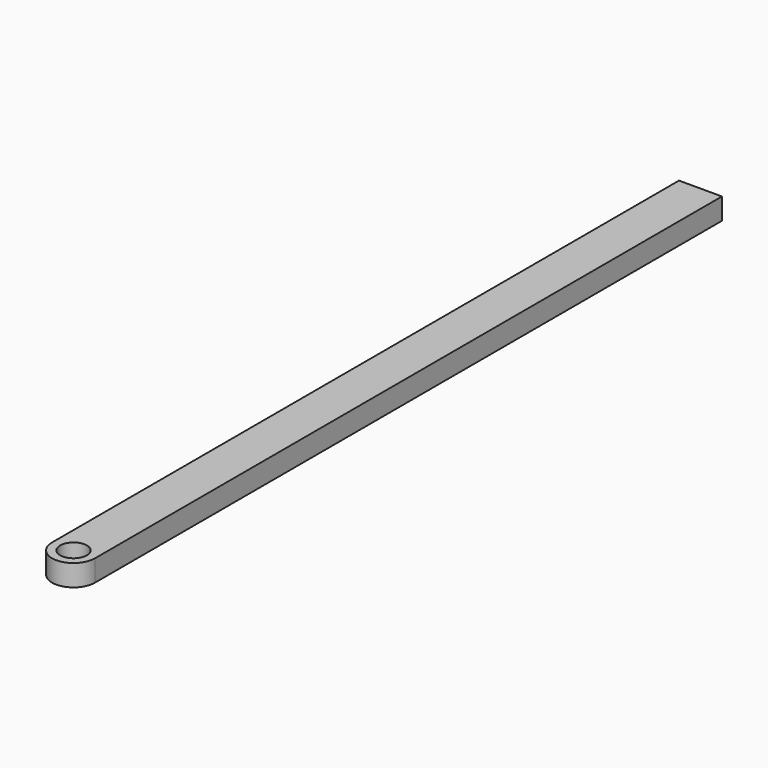
from build123d import *

# Parameters (mm, degrees)
F0_R     = 2.5
F1_DEPTH = 4


with BuildPart() as f1:
    # F0 (on Top) → F1 (new body)
    with BuildSketch(Plane.XY):
        with BuildLine():
            Line((8, 150), (0, 150))
            Line((0, 150), (0, 4))
            ThreePointArc((0, 4), (4, 0), (8, 4))
            Line((8, 4), (8, 150))
        make_face()
        with Locations((4, 4)):
            Circle(F0_R, mode=Mode.SUBTRACT)
    extrude(amount=F1_DEPTH)


solid = f1.part
